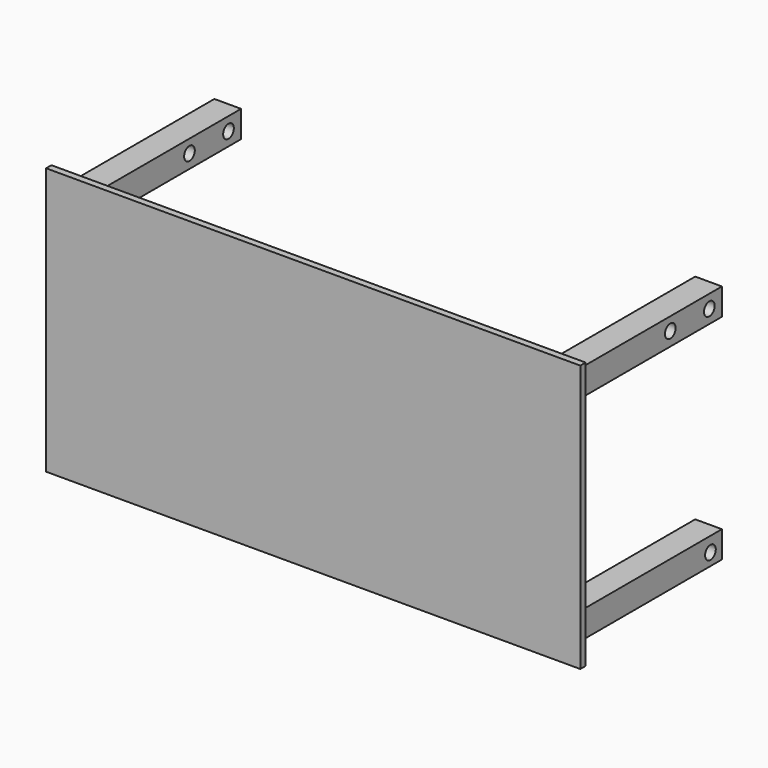
from build123d import *

# Parameters (mm, degrees)
F0_W      = 2000
F0_H      = 1000
F1_DEPTH  = 25
F2_W      = 100
F2_H      = 100
F3_DEPTH  = 700
F4_W      = 100
F4_H      = 100
F5_DEPTH  = 700
F6_W      = 100
F6_H      = 100
F7_DEPTH  = 700
F8_W      = 100
F8_H      = 100
F9_DEPTH  = 700
F10_R     = 25
F11_DEPTH = 1950.001
F12_R     = 25
F13_DEPTH = 1950.001
F14_R     = 25
F15_DEPTH = 1950.001


with BuildPart() as f1:
    # F0 (on Front) → F1 (new body)
    with BuildSketch(Plane.XZ):
        with Locations((2.746239, 271.337836)):
            Rectangle(F0_W, F0_H)
    extrude(amount=F1_DEPTH)

    # F2 (on face) → F3 (join)
    with BuildSketch(Plane(origin=(0, 0, 0), x_dir=(-1, 0, 0), z_dir=(0, 1, 0))):
        with Locations((-902.746239, 671.337836)):
            Rectangle(F2_W, F2_H)
    extrude(amount=F3_DEPTH)

    # F4 (on face) → F5 (join)
    with BuildSketch(Plane(origin=(0, 0, 0), x_dir=(-1, 0, 0), z_dir=(0, 1, 0))):
        with Locations((897.253761, 671.337836)):
            Rectangle(F4_W, F4_H)
    extrude(amount=F5_DEPTH)

    # F6 (on face) → F7 (join)
    with BuildSketch(Plane(origin=(0, 0, 0), x_dir=(-1, 0, 0), z_dir=(0, 1, 0))):
        with Locations((-902.746239, -128.662164)):
            Rectangle(F6_W, F6_H)
    extrude(amount=F7_DEPTH)

    # F8 (on face) → F9 (join)
    with BuildSketch(Plane(origin=(0, 0, 0), x_dir=(-1, 0, 0), z_dir=(0, 1, 0))):
        with Locations((897.253761, -128.662164)):
            Rectangle(F8_W, F8_H)
    extrude(amount=F9_DEPTH)

    # F10 (on face) → F11 (cut, through all)
    with BuildSketch(Plane(origin=(-947.253761, 0, 0), x_dir=(0, -1, 0), z_dir=(-1, 0, 0))):
        with Locations((-641.158521, 671.337836)):
            Circle(F10_R)
    extrude(amount=-F11_DEPTH, mode=Mode.SUBTRACT)

    # F12 (on face) → F13 (cut, through all)
    with BuildSketch(Plane.YZ.offset(952.746239)):
        with Locations((646.280468, -133.296296)):
            Circle(F12_R)
    extrude(amount=-F13_DEPTH, mode=Mode.SUBTRACT)

    # F14 (on face) → F15 (cut, through all)
    with BuildSketch(Plane.YZ.offset(952.746239)):
        with Locations((458.47559, 672.557294)):
            Circle(F14_R)
    extrude(amount=-F15_DEPTH, mode=Mode.SUBTRACT)


solid = f1.part
